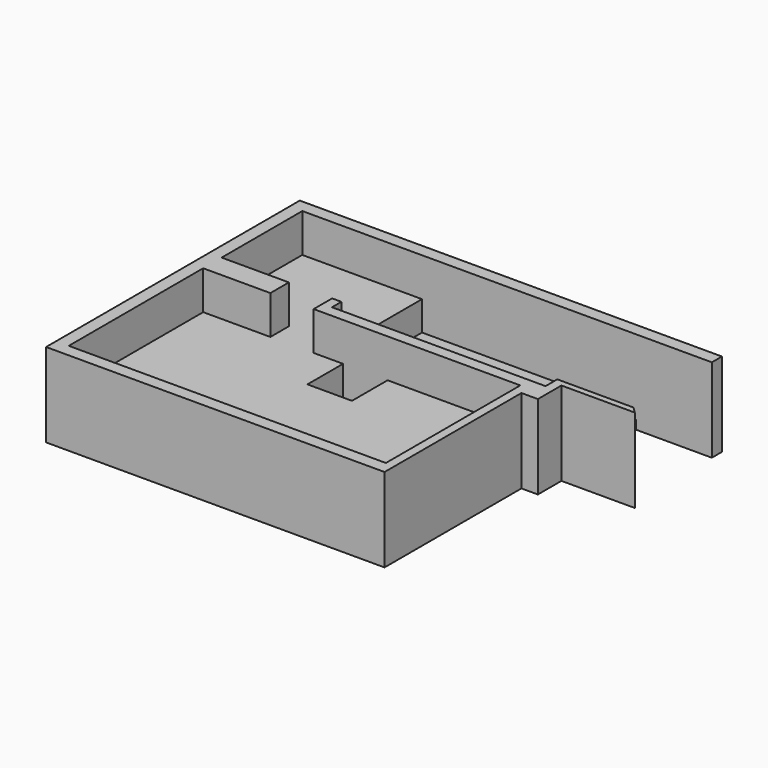
from build123d import *

# Parameters (mm, degrees)
F3_DEPTH = 210
F4_DEPTH = 380
F5_DEPTH = 1080
F1_W     = 9750
F1_H     = 300
F6_DEPTH = 2000
F7_DEPTH = 2000
F8_DEPTH = 2000
F9_DEPTH = 2000


with BuildPart() as f3:
    # F2 (on face) → F3 (new body)
    with BuildSketch(Plane.XY):
        Polygon((-4981.95831, 3771.98756), (-4981.95831, 6101.98756), (-5251.95831, 6101.98756), (-5251.95831, 3421.98756), (-4986.95831, 3421.98756), (-4986.95831, 3771.98756), align=None)
    extrude(amount=F3_DEPTH)

    # F2 (on face) → F4 (join)
    with BuildSketch(Plane.XY):
        Polygon((-5251.95831, 3421.98756), (-5251.95831, 6101.98756), (-10071.95831, 6101.98756), (-10071.95831, 3701.98756), (-10071.95831, 3421.98756), align=None)
    extrude(amount=F4_DEPTH)

    # F2 (on face) → F5 (join)
    with BuildSketch(Plane.XY):
        Polygon((-10071.95831, 3701.98756), (-10071.95831, 6101.98756), (-12921.95831, 6101.98756), (-12921.95831, 3701.98756), (-11321.95831, 3701.98756), (-11321.95831, 3151.98756), (-12921.95831, 3151.98756), (-12921.95831, -848.01244), (-5371.95831, -848.01244), (-5371.95831, 3151.98756), (-8531.95831, 3151.98756), (-8531.95831, 2091.98756), (-9591.95831, 2091.98756), (-9591.95831, 3151.98756), (-10291.95831, 3151.98756), (-10291.95831, 3701.98756), align=None)
    extrude(amount=F5_DEPTH)

    # F1 (on face) → F6 (join)
    with BuildSketch(Plane.XY):
        with Locations((-8046.95831, 6251.98756)):
            Rectangle(F1_W, F1_H)
    extrude(amount=F6_DEPTH)

    # F1 (on face) → F7 (join)
    with BuildSketch(Plane.XY):
        Polygon((-4772.845268, 3626.98756), (-3026.95831, 3626.98756), (-3171.95831, 3771.98756), (-4986.95831, 3771.98756), (-4986.95831, 3421.98756), (-10071.95831, 3421.98756), (-10071.95831, 3701.98756), (-10291.95831, 3701.98756), (-10291.95831, 3151.98756), (-9591.95831, 3151.98756), (-8531.95831, 3151.98756), (-5371.95831, 3151.98756), (-5371.95831, -848.01244), (-5164.042473, -1148.01244), (-5164.042473, 2925.792217), (-4772.845268, 2925.792217), align=None)
    extrude(amount=F7_DEPTH)

    # F1 (on face) → F8 (join)
    with BuildSketch(Plane.XY):
        Polygon((-12921.95831, 3701.98756), (-12921.95831, 6101.98756), (-12921.95831, 6401.98756), (-13221.95831, 6401.98756), (-13221.95831, -1148.01244), (-12921.95831, -1148.01244), (-12921.95831, -848.01244), (-12921.95831, 3151.98756), (-11321.95831, 3151.98756), (-11321.95831, 3701.98756), align=None)
    extrude(amount=F8_DEPTH)

    # F1 (on face) → F9 (join)
    with BuildSketch(Plane.XY):
        Polygon((-12921.95831, -848.01244), (-12921.95831, -1148.01244), (-5164.042473, -1148.01244), (-5371.95831, -848.01244), align=None)
    extrude(amount=F9_DEPTH)


with BuildPart() as f10_1:
    # F10: copy of F3
    add(f3.part)


solid = Compound([f3.part, f10_1.part])
